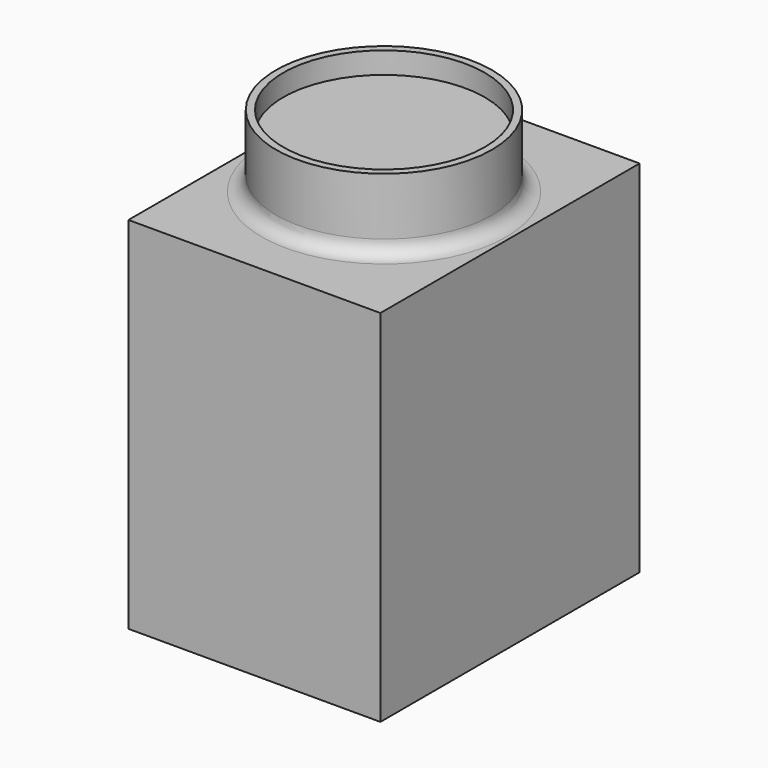
from build123d import *

# Parameters (mm, degrees)
SKETCH_W     = 35
SKETCH_H     = 45
PAD_DEPTH    = 50
SKETCH001_R  = 15
PAD001_DEPTH = 10
SKETCH002_R  = 14
POCKET_DEPTH = 3
FILLET_R     = 2


with BuildPart() as part:
    # Sketch → Pad (new body)
    with BuildSketch(Plane.XY):
        with Locations((2.787933, 6.169585)):
            Rectangle(SKETCH_W, SKETCH_H)
    extrude(amount=PAD_DEPTH)

    # Sketch001 (on Face6 of Pad) → Pad001 (join)
    with BuildSketch(Plane.XY.offset(50)):
        with Locations((2.787933, 6.169585)):
            Circle(SKETCH001_R)
    extrude(amount=PAD001_DEPTH)

    # Sketch002 (on Face8 of Pad001) → Pocket (cut)
    with BuildSketch(Plane.XY.offset(60)):
        with Locations((2.787933, 6.169585)):
            Circle(SKETCH002_R)
    extrude(amount=-POCKET_DEPTH, mode=Mode.SUBTRACT)

    # Fillet
    fillet_edges = [part.edges().sort_by_distance(p)[0] for p in [
        (-12.212067, 6.169585, 50),
    ]]
    fillet(fillet_edges, radius=FILLET_R)


solid = part.part
